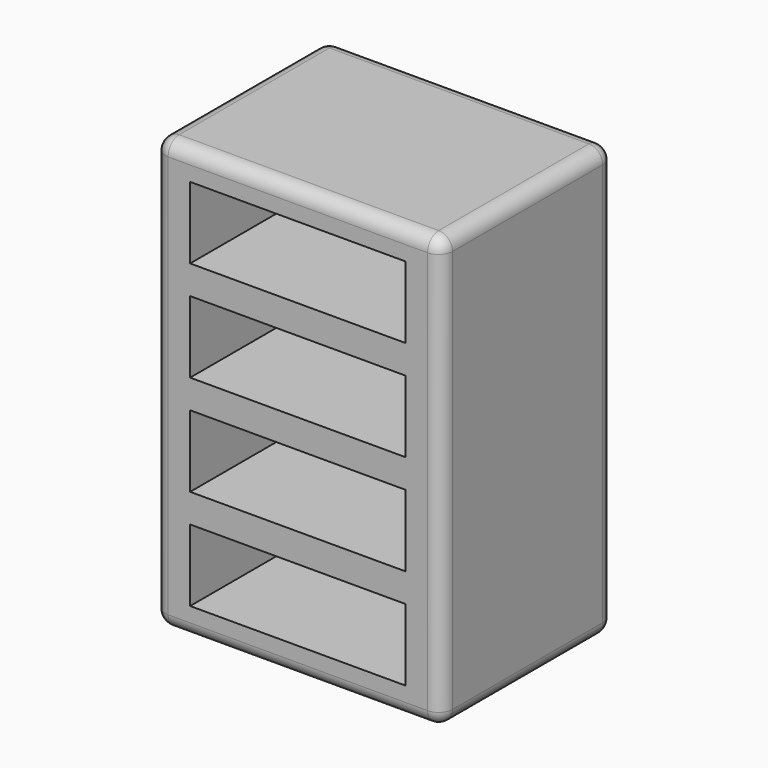
from build123d import *

# Parameters (mm, degrees)
F0_W     = 101.6
F0_H     = 76.2
F1_DEPTH = 152.4
F2_W     = 76.2
F2_H     = 25.4
F3_DEPTH = 70.104
F4_R     = 4.905682


with BuildPart() as f1:
    # F0 (on Top) → F1 (new body)
    with BuildSketch(Plane.XY):
        with Locations((38.523726, -72.381201)):
            Rectangle(F0_W, F0_H)
    extrude(amount=F1_DEPTH)

    # F2 (on face) → F3 (cut)
    with BuildSketch(Plane.XZ.offset(110.481201)):
        with Locations((38.523726, 129.54)):
            Rectangle(F2_W, F2_H)
        with Locations((38.523726, 93.98)):
            Rectangle(F2_W, F2_H)
        with Locations((38.523726, 58.42)):
            Rectangle(F2_W, F2_H)
        with Locations((38.523726, 22.86)):
            Rectangle(F2_W, F2_H)
    extrude(amount=-F3_DEPTH, mode=Mode.SUBTRACT)

    # F4
    f4_edges = [f1.edges().sort_by_distance(p)[0] for p in [
        (38.523726, -34.281201, 152.4),
        (-12.276274, -72.381201, 152.4),
        (38.523726, -110.481201, 152.4),
        (89.323726, -72.381201, 152.4),
        (89.323726, -110.481201, 76.2),
        (89.323726, -34.281201, 76.2),
        (89.323726, -72.381201, 0),
        (38.523726, -110.481201, 0),
        (38.523726, -34.281201, 0),
        (-12.276274, -34.281201, 76.2),
        (-12.276274, -110.481201, 76.2),
        (-12.276274, -72.381201, 0),
    ]]
    fillet(f4_edges, radius=F4_R)


solid = f1.part
